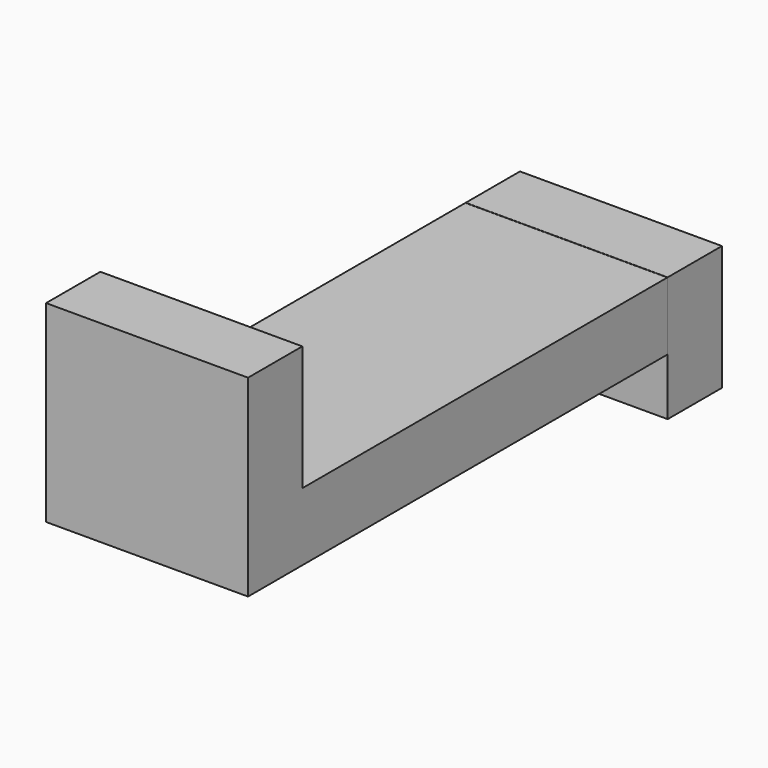
from build123d import *

# Parameters (mm, degrees)
F0_W     = 150.368
F0_H     = 22.352
F1_DEPTH = 66.548


with BuildPart() as f1:
    # F0 (on Right) → F1 (new body)
    with BuildSketch(Plane.YZ):
        with Locations((26.038232, -11.176)):
            Rectangle(F0_W, F0_H)
        Polygon((-49.145768, 41.148), (-71.497768, 41.148), (-71.497768, -22.352), (-49.145768, -22.352), (-49.145768, 0), align=None)
        Polygon((103.630818, 0), (101.332784, 0), (101.332784, -41.148), (123.684784, -41.148), (123.684784, 0), align=None)
    extrude(amount=F1_DEPTH)


solid = f1.part
